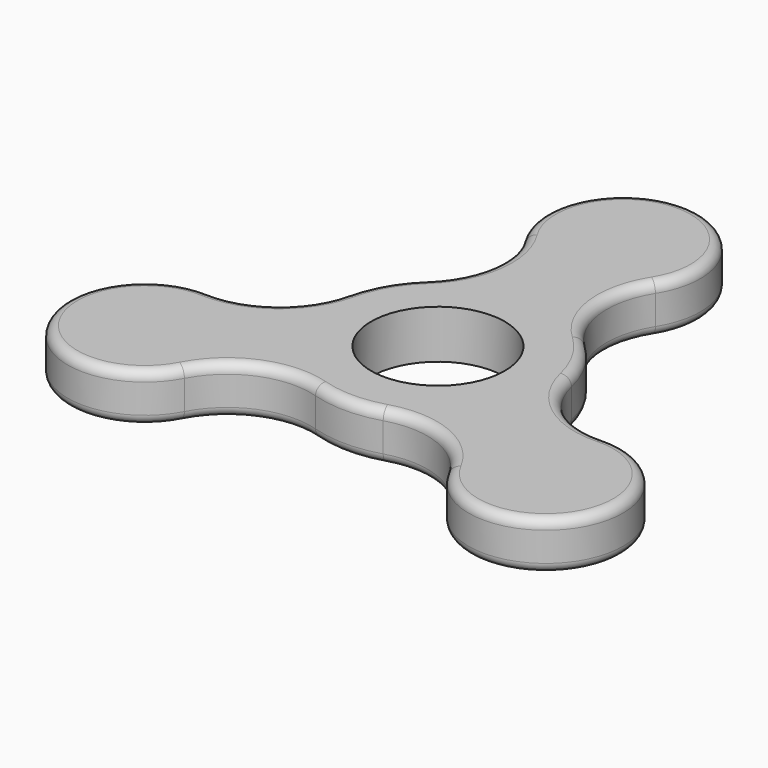
from build123d import *

# Parameters (mm, degrees)
F0_R     = 19.05
F0_R_2   = 10.9982
F1_DEPTH = 7.9756
F3_DEPTH = 7.9756
F4_R     = 1.5875


with BuildPart() as f1:
    # F0 (on Top) → F1 (new body)
    with BuildSketch(Plane.XY):
        Circle(F0_R)
        Circle(F0_R_2, mode=Mode.SUBTRACT)
    extrude(amount=F1_DEPTH)

    # F2 (on Top) → F3 (join)
    with BuildSketch(Plane.XY):
        with BuildLine():
            ThreePointArc((12.992472, 13.931912), (8.734155, 22.222298), (10.741134, 31.323715))
            ThreePointArc((10.741134, 31.323715), (0, 50.8), (-10.741134, 31.323715))
            ThreePointArc((-10.741134, 31.323715), (-8.734155, 22.222298), (-12.992472, 13.931912))
            Line((-12.992472, 13.931912), (12.992472, 13.931912))
        make_face()
        with BuildLine():
            ThreePointArc((-21.756566, -24.963952), (-14.877996, -18.675149), (-5.569153, -18.217767))
            Line((-5.569153, -18.217767), (-18.561626, 4.285855))
            ThreePointArc((-18.561626, 4.285855), (-23.612152, -3.547148), (-32.4977, -6.359763))
            ThreePointArc((-32.4977, -6.359763), (-43.994091, -25.4), (-21.756566, -24.963952))
        make_face()
        with BuildLine():
            ThreePointArc((32.4977, -6.359763), (23.612152, -3.547148), (18.561626, 4.285855))
            Line((18.561626, 4.285855), (5.569153, -18.217767))
            ThreePointArc((5.569153, -18.217767), (14.877996, -18.675149), (21.756566, -24.963952))
            ThreePointArc((21.756566, -24.963952), (43.994091, -25.4), (32.4977, -6.359763))
        make_face()
    extrude(amount=F3_DEPTH)

    # F4
    f4_edges = [f1.edges().sort_by_distance(p)[0] for p in [
        (-14.877996, -18.675149, 7.9756),
        (-14.877996, -18.675149, 0),
    ]]
    fillet(f4_edges, radius=F4_R)


solid = f1.part
